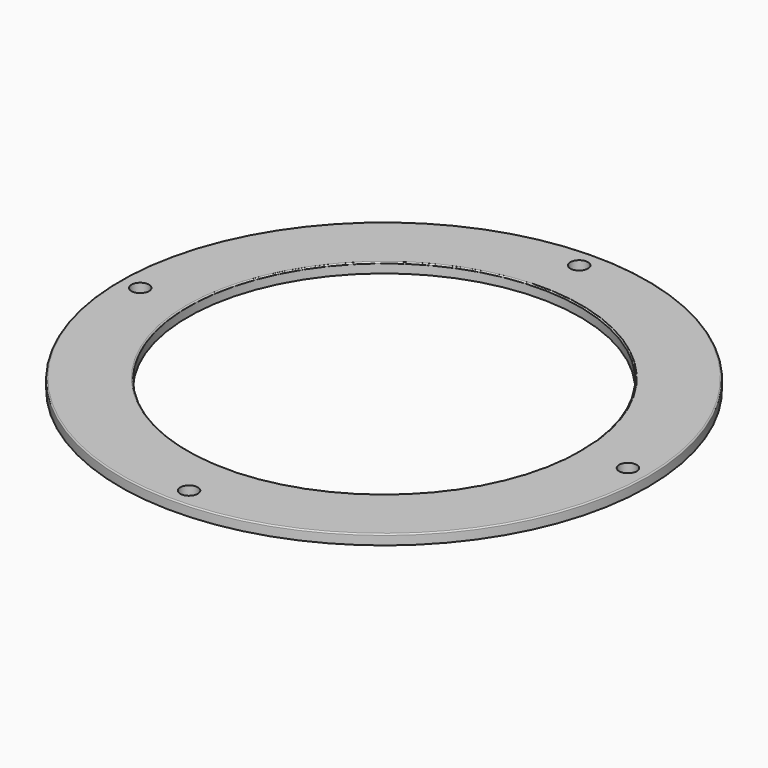
from build123d import *

# Parameters (mm, degrees)
F0_R     = 52.5
F0_R_2   = 39
F1_DEPTH = 2
F2_R     = 0.25
F3_R     = 1.75
F4_DEPTH = 2.001


with BuildPart() as f1:
    # F0 (on Top) → F1 (new body)
    with BuildSketch(Plane.XY):
        Circle(F0_R)
        Circle(F0_R_2, mode=Mode.SUBTRACT)
    extrude(amount=F1_DEPTH)

    # F2
    f2_edges = [f1.edges().sort_by_distance(p)[0] for p in [
        (-52.5, 0, 2),
        (-39, 0, 2),
    ]]
    fillet(f2_edges, radius=F2_R)

    # F3 (on Top) → F4 (cut, through all)
    with BuildSketch(Plane.XY):
        with Locations((48.5, 0)):
            Circle(F3_R)
        with Locations((0, 48.5)):
            Circle(F3_R)
        with Locations((-48.5, 0)):
            Circle(F3_R)
        with Locations((0, -48.5)):
            Circle(F3_R)
    extrude(amount=F4_DEPTH, mode=Mode.SUBTRACT)


solid = f1.part
